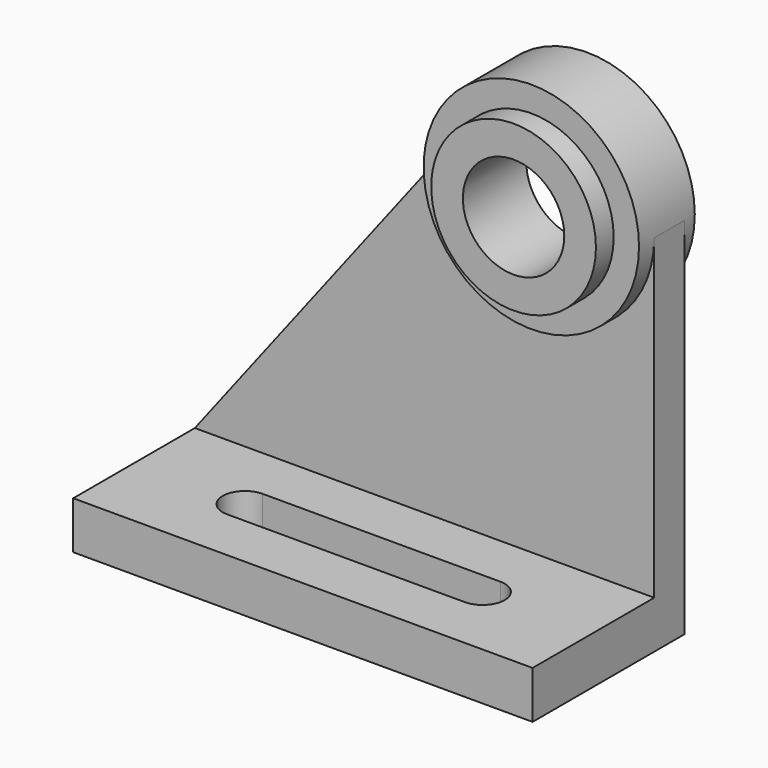
from build123d import *

# Parameters (mm, degrees)
F0_W     = 145
F0_H     = 60
F1_DEPTH = 15
F3_START = -18
F3_DEPTH = 12
F4_START = -12
F2_R     = 26
F4_DEPTH = 22
F5_START = -5
F2_R_2   = 16
F5_DEPTH = 25


with BuildPart() as f1:
    # F0 (on Top) → F1 (new body)
    with BuildSketch(Plane.XY):
        Rectangle(F0_W, F0_H)
        with BuildLine():
            ThreePointArc((-37.5, -13), (-44.5, -6), (-37.5, 1))
            Line((-37.5, 1), (37.5, 1))
            ThreePointArc((37.5, 1), (44.5, -6), (37.5, -13))
            Line((37.5, -13), (-37.5, -13))
        make_face(mode=Mode.SUBTRACT)
    extrude(amount=-F1_DEPTH)

    # F2 (on Front) → F3 (join)
    with BuildSketch(Plane.XZ.offset(F3_START)):
        with BuildLine():
            Line((72.5, 0), (72.5, 100))
            ThreePointArc((72.5, 100), (38.5, 66), (4.5, 100))
            Line((4.5, 100), (-72.5, 0))
            Line((-72.5, 0), (-63.7343847897, 0))
            Line((-63.7343847897, 0), (65.0060102344, 0))
            Line((65.0060102344, 0), (72.5, 0))
        make_face()
    extrude(amount=-F3_DEPTH)

    # F2 (on Front) → F4 (join)
    with BuildSketch(Plane.XZ.offset(F4_START)):
        with BuildLine():
            ThreePointArc((4.5, 100), (38.5, 66), (72.5, 100))
            ThreePointArc((72.5, 100), (38.5, 134), (4.5, 100))
        make_face()
        with Locations((38.5, 100)):
            Circle(F2_R, mode=Mode.SUBTRACT)
    extrude(amount=-F4_DEPTH)

    # F2 (on Front) → F5 (join)
    with BuildSketch(Plane.XZ.offset(F5_START)):
        with Locations((38.5, 100)):
            Circle(F2_R)
        with Locations((38.5, 100)):
            Circle(F2_R_2, mode=Mode.SUBTRACT)
    extrude(amount=-F5_DEPTH)


solid = f1.part
